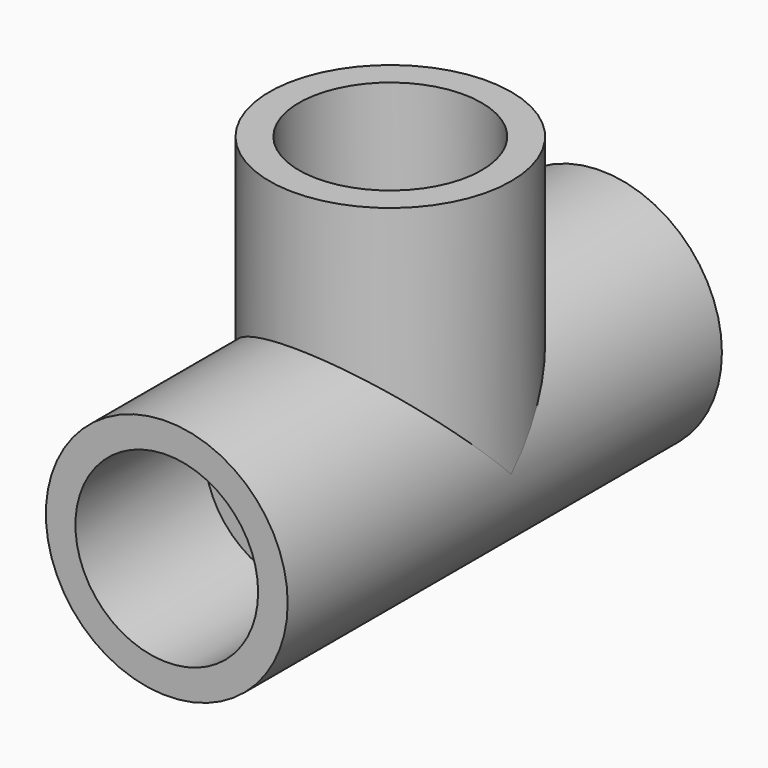
from build123d import *

# Parameters (mm, degrees)
F0_R     = 14.2875
F1_DEPTH = 64.135
F4_DEPTH = 30.48
F6_R     = 10.8050815028
F7_DEPTH = 19.05
F5_R     = 10.795
F8_DEPTH = 19.05
F2_R     = 10.795
F9_DEPTH = 19.05


with BuildPart() as f1:
    # F0 (on Front) → F1 (new body)
    with BuildSketch(Plane.XZ):
        Circle(F0_R)
    extrude(amount=F1_DEPTH)

    # F3 (on Top) → F4 (join)
    with BuildSketch(Plane.XY):
        with BuildLine():
            ThreePointArc((0, -45.4052215051), (10.1027881362, -41.2205096413), (14.2875, -31.1177215051))
            ThreePointArc((14.2875, -31.1177215051), (-10.1027881362, -21.0149333689), (0, -45.4052215051))
        make_face()
    extrude(amount=F4_DEPTH)

    # F6 (on face) → F7 (cut)
    with BuildSketch(Plane(origin=(0, 0, 0), x_dir=(-1, 0, 0), z_dir=(0, 1, 0))):
        Circle(F6_R)
    extrude(amount=-F7_DEPTH, mode=Mode.SUBTRACT)

    # F5 (on face) → F8 (cut)
    with BuildSketch(Plane.XY.offset(30.48)):
        with Locations((0, -31.1177215051)):
            Circle(F5_R)
    extrude(amount=-F8_DEPTH, mode=Mode.SUBTRACT)

    # F2 (on face) → F9 (cut)
    with BuildSketch(Plane.XZ.offset(64.135)):
        Circle(F2_R)
    extrude(amount=-F9_DEPTH, mode=Mode.SUBTRACT)


solid = f1.part
